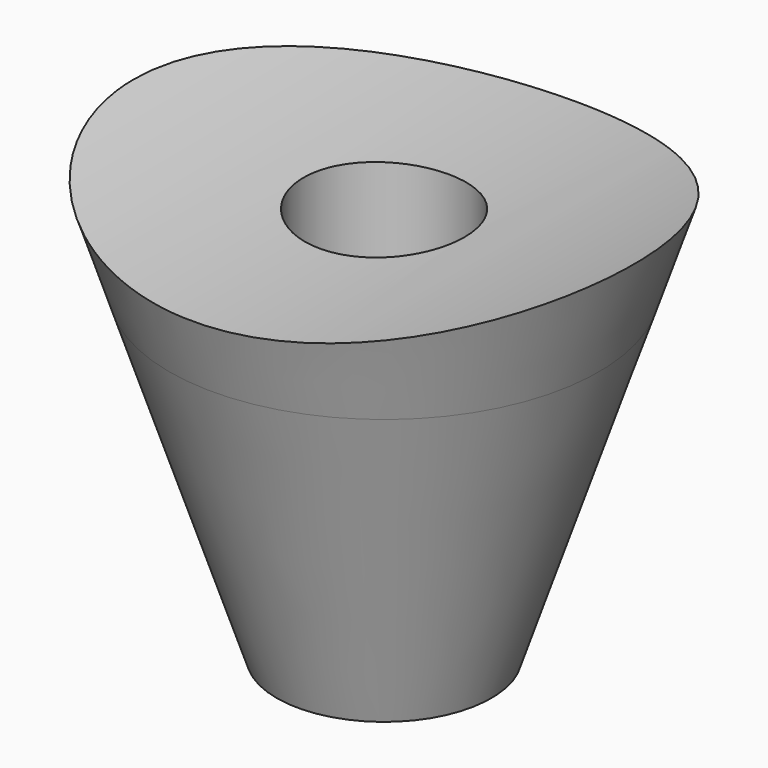
from build123d import *

# Parameters (mm, degrees)
F2_R     = 7.5
F3_DEPTH = 50
F5_DEPTH = 25


with BuildPart() as f1:
    # F0 (on Front) → F1 (revolve)
    with BuildSketch(Plane.XZ):
        Polygon((-20, 30), (-10, 0), (0, 0), (0, 40), (-23.333333, 40), align=None)
    revolve(axis=Axis((0, 0, 20), (0, 0, -1)))

    # F2 (on Top) → F3 (cut)
    with BuildSketch(Plane.XY):
        Circle(F2_R)
    extrude(amount=F3_DEPTH, mode=Mode.SUBTRACT)

    # F4 (on Front) → F5 (cut, symmetric)
    with BuildSketch(Plane.XZ):
        with BuildLine():
            ThreePointArc((39.268938, 46.276736), (0, 57.353531), (-39.268938, 46.276736))
            ThreePointArc((-39.268938, 46.276736), (0, 36.659249), (39.268938, 46.276736))
        make_face()
    extrude(amount=F5_DEPTH, both=True, mode=Mode.SUBTRACT)


solid = f1.part
